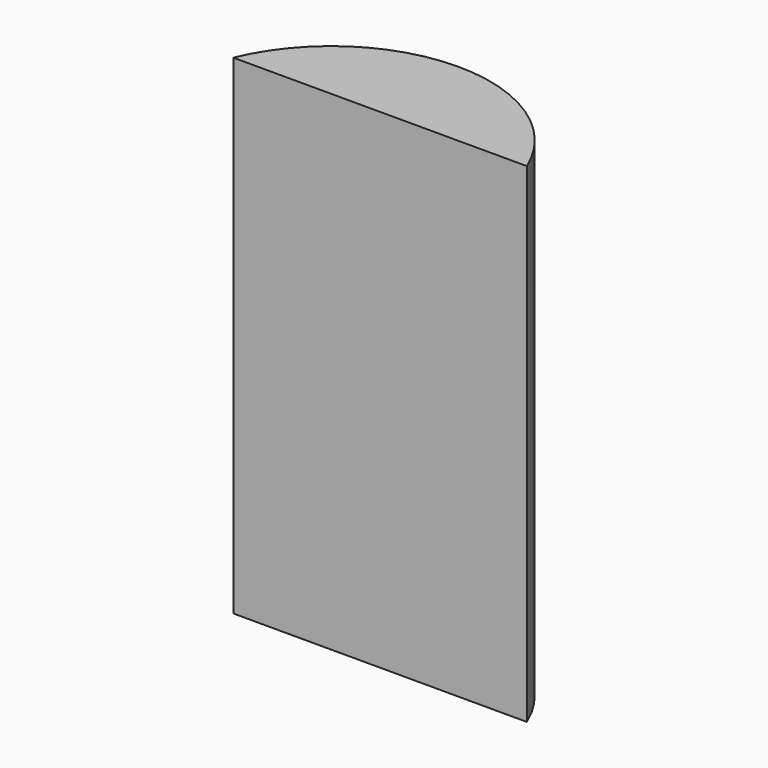
from build123d import *

# Parameters (mm, degrees)
F1_DEPTH = 5


with BuildPart() as f1:
    # F0 (on Top) → F1 (new body)
    with BuildSketch(Plane.XY):
        with BuildLine():
            Line((0, 1), (0, 0))
            Line((0, 0), (1.5, 0))
            ThreePointArc((1.5, 0), (0.901388, 0.727082), (0, 1))
        make_face()
        with BuildLine():
            Line((-1.5, 0), (0, 0))
            Line((0, 0), (0, 1))
            ThreePointArc((0, 1), (-0.901388, 0.727082), (-1.5, 0))
        make_face()
    extrude(amount=F1_DEPTH)


solid = f1.part
